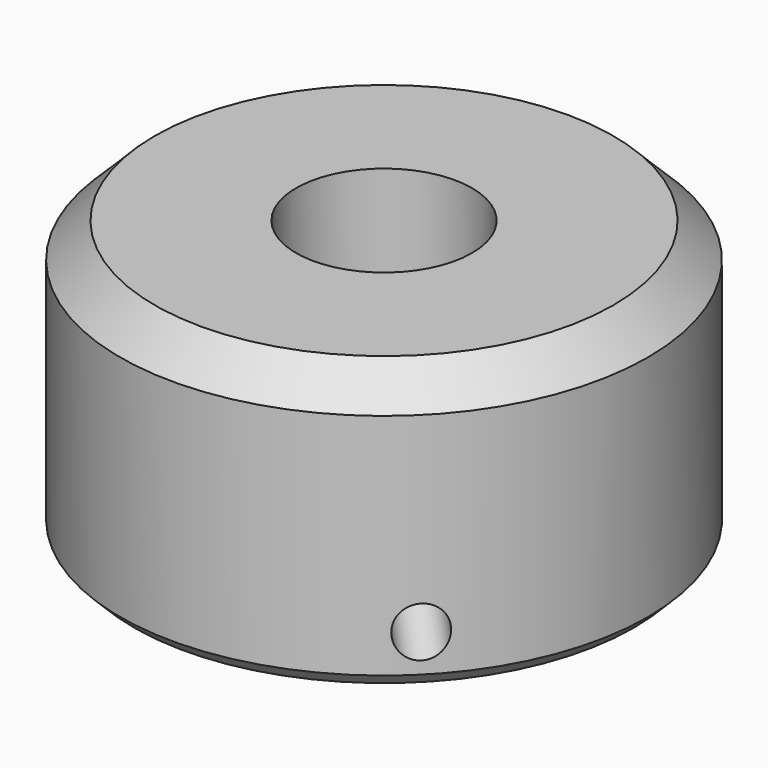
from build123d import *

# Parameters (mm, degrees)
F0_R      = 38.1
F1_DEPTH  = 40
F2_R      = 12.7
F3_DEPTH  = 35
F4_SIZE   = 5
F11_R     = 3.4
F12_DEPTH = 50
F15_SIZE  = 2
F16_R     = 3.4
F17_DEPTH = 50
F18_R     = 3.4
F19_DEPTH = 50


with BuildPart() as f1:
    # F0 (on Top) → F1 (new body)
    with BuildSketch(Plane.XY):
        Circle(F0_R)
    extrude(amount=F1_DEPTH)

    # F2 (on face) → F3 (cut)
    with BuildSketch(Plane.XY.offset(40)):
        Circle(F2_R)
    extrude(amount=-F3_DEPTH, mode=Mode.SUBTRACT)

    # F4
    f4_edges = [f1.edges().sort_by_distance(p)[0] for p in [
        (-38.1, 0, 40),
    ]]
    chamfer(f4_edges, length=F4_SIZE)

    # F11 (on face) → F12 (cut)
    with BuildSketch(Plane(origin=(46.512412, -46.512412, -23.94141), x_dir=(0.747321, 0.590792, 0.304099), z_dir=(0.664463, -0.664463, -0.34202))):
        with Locations((6.472312, 18.923773)):
            Circle(F11_R)
    extrude(amount=-F12_DEPTH, mode=Mode.SUBTRACT)

    # F15
    f15_edges = [f1.edges().sort_by_distance(p)[0] for p in [
        (-38.1, 0, 0),
    ]]
    chamfer(f15_edges, length=F15_SIZE)

    # F16 (on face) → F17 (cut)
    with BuildSketch(Plane(origin=(46.512412, 46.512412, -23.94141), x_dir=(-0.747321, 0.590792, -0.304099), z_dir=(0.664463, 0.664463, -0.34202))):
        with Locations((-6.472312, 18.923773)):
            Circle(F16_R)
    extrude(amount=-F17_DEPTH, mode=Mode.SUBTRACT)

    # F18 (on face) → F19 (cut)
    with BuildSketch(Plane(origin=(-60.04, 0, -13.310548), x_dir=(0, -1, 0), z_dir=(-0.976296, 0, -0.21644))):
        with Locations((0, 15)):
            Circle(F18_R)
    extrude(amount=-F19_DEPTH, mode=Mode.SUBTRACT)


solid = f1.part
